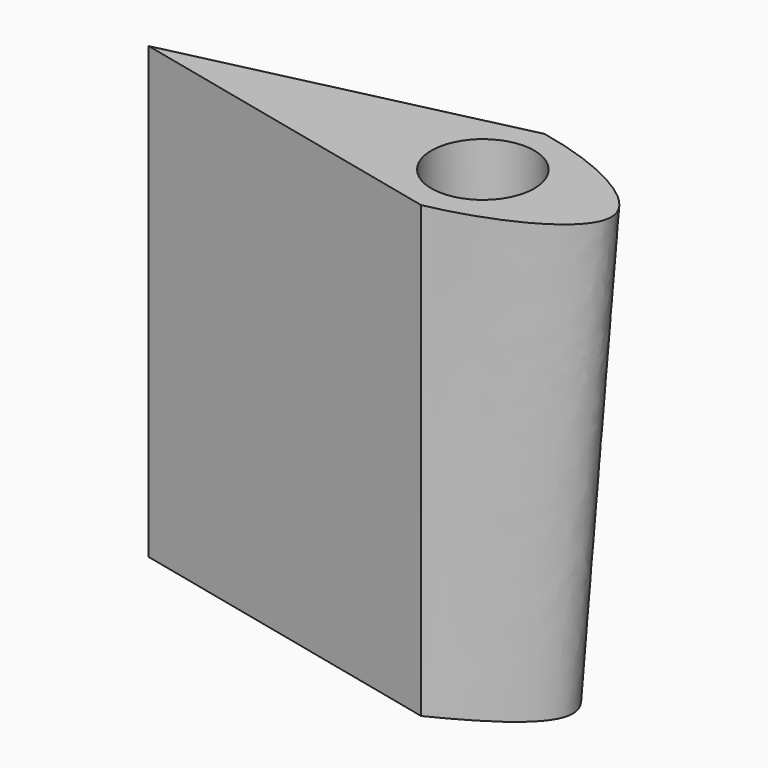
from build123d import *

# Parameters (mm, degrees)
F4_R     = 4
F5_DEPTH = 5


with BuildPart() as f3:
    # F0 (on Top) → F3 section 0
    with BuildSketch(Plane.XY):
        with BuildLine():
            Line((0, 6), (-26, 0))
            Line((-26, 0), (0, -6))
            add(Edge.make_bspline(
                [(0, 6), (4.950952, 5), (15.029323, 0), (4.990401, -5), (0, -6)],
                knots=[0, 0, 0, 0, 11.661904, 23.323808, 23.323808, 23.323808, 23.323808], degree=3))
        make_face()
    # F2 (on offset) → F3 section 1
    with BuildSketch(Plane.XY.offset(-35)):
        with BuildLine():
            Line((0, 6), (-26, 0))
            Line((-26, 0), (0, -6))
            add(Edge.make_bspline(
                [(0, 6), (3.812765, 3.989995), (10.181747, 0.05554), (3.823742, -4.101074), (0, -6)],
                knots=[0, 0, 0, 0, 9.219544, 18.439089, 18.439089, 18.439089, 18.439089], degree=3))
        make_face()
    loft()

    # F4 (on face) → F5 (cut)
    with BuildSketch(Plane.XY):
        Circle(F4_R)
    extrude(amount=-F5_DEPTH, mode=Mode.SUBTRACT)


solid = f3.part
